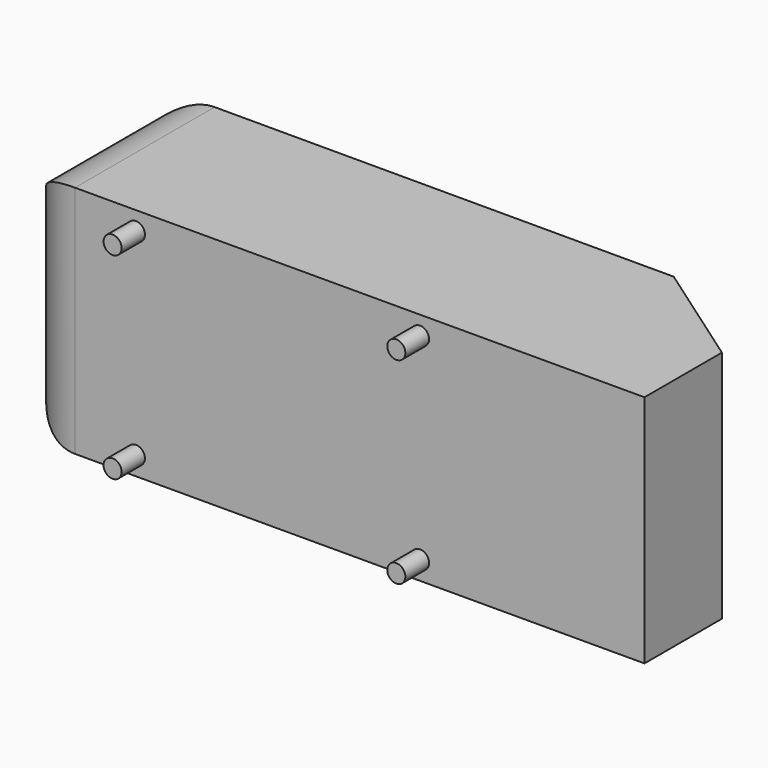
from build123d import *

# Parameters (mm, degrees)
F1_DEPTH = 194.5
F2_DEPTH = 194.5
F3_R     = 15
F5_R     = 100


with BuildPart() as f1:
    # F0 (on Top) → F1 (new body)
    with BuildSketch(Plane.XY):
        Polygon((-1043.9980842894, 48), (0, 50), (0, 210.6660311301), (-181.8517538322, 338), (-1043.9980842894, 338), (-1043.9980842894, 50), align=None)
    extrude(amount=F1_DEPTH)

    # F0 (on Top) → F2 (join)
    with BuildSketch(Plane.XY):
        Polygon((-1043.9980842894, 48), (0, 50), (0, 210.6660311301), (-181.8517538322, 338), (-1043.9980842894, 338), (-1043.9980842894, 50), align=None)
    extrude(amount=-F2_DEPTH)

    # F3 (on Front) → F4 (join, up to the next surface of F1)
    with BuildSketch(Plane.XZ):
        with Locations((-843, 163.5)):
            Circle(F3_R)
        with Locations((-843, -163.5)):
            Circle(F3_R)
        with Locations((-372, 163.5)):
            Circle(F3_R)
        with Locations((-372, -163.5)):
            Circle(F3_R)
    extrude(until=Until.NEXT, dir=(0, 1, 0))

    # F5
    f5_edges = [f1.edges().sort_by_distance(p)[0] for p in [
        (-1043.998084, 338, 0),
        (-1043.998084, 193, 194.5),
        (-1043.998084, 48, 0),
        (-1043.998084, 193, -194.5),
    ]]
    fillet(f5_edges, radius=F5_R)


solid = f1.part
